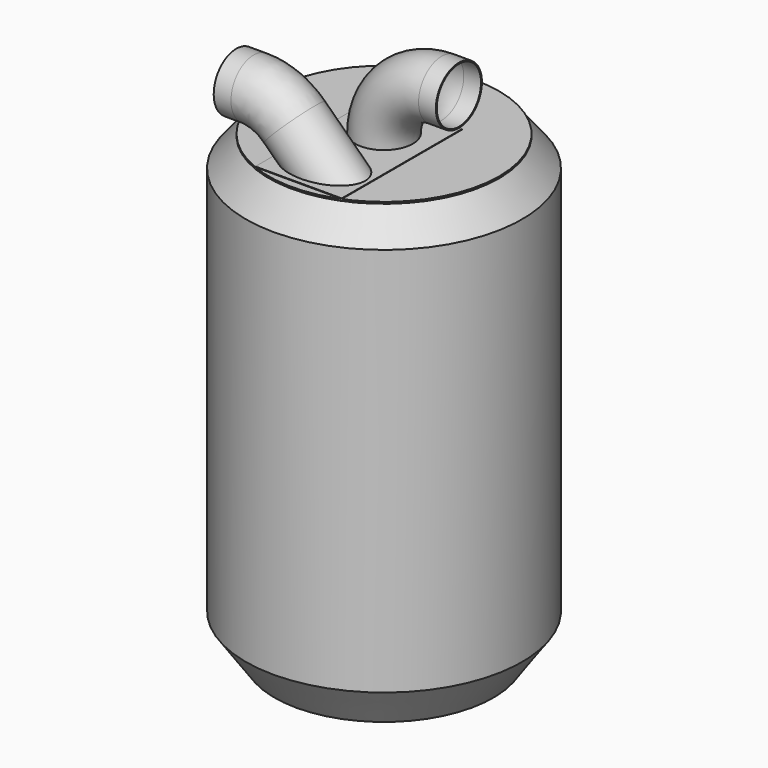
from build123d import *

# Parameters (mm, degrees)
F1_R           = 200
F1_R_2         = 35
F2_DEPTH       = 3
F3_W           = 150
F3_H           = 150
F3_R           = 35
F3_H_2         = 110.4049621774
F4_DEPTH       = 1
F5_R           = 2.5
F6_DEPTH       = 200
F7_R           = 40
F8_DEPTH       = 1
F9_R           = 75
F9_R_2         = 74
F10_DEPTH      = 200
F11_W          = 150
F11_H          = 110.4049621774
F11_H_2        = 150
F11_R          = 35
F12_DEPTH      = 1
F14_R          = 50
F14_R_2        = 48
F18_R          = 50
F19_DEPTH      = 286.3066576677
F19_DEPTH_BACK = 248.6353568471
F20_R          = 50
F20_R_2        = 48
F21_DEPTH      = 75
F24_R          = 50
F24_R_2        = 48


with BuildPart() as f2:
    # F1 (on Top) → F2 (new body)
    with BuildSketch(Plane.XY):
        Circle(F1_R)
        Circle(F1_R_2, mode=Mode.SUBTRACT)
    extrude(amount=F2_DEPTH)


with BuildPart() as f4:
    # F3 (on face) → F4 (new body)
    with BuildSketch(Plane(origin=(0, 0, 0), x_dir=(1, 0, 0), z_dir=(0, 0, -1))):
        Rectangle(F3_W, F3_H)
        Circle(F3_R, mode=Mode.SUBTRACT)
        with Locations((0, 130.2024810887)):
            Rectangle(F3_W, F3_H_2)
    extrude(amount=F4_DEPTH)


with BuildPart() as f6:
    # F5 (on face) → F6 (new body)
    with BuildSketch(Plane(origin=(0, 0, -1), x_dir=(1, 0, 0), z_dir=(0, 0, -1))):
        with Locations((0, 37.5)):
            Circle(F5_R)
    extrude(amount=F6_DEPTH)


with BuildPart() as f6b:
    # F5 (on face) → F6, piece 2 (new body)
    with BuildSketch(Plane(origin=(0, 0, -1), x_dir=(1, 0, 0), z_dir=(0, 0, -1))):
        with Locations((-32.4759526419, 18.75)):
            Circle(F5_R)
    extrude(amount=F6_DEPTH)


with BuildPart() as f6c:
    # F5 (on face) → F6, piece 3 (new body)
    with BuildSketch(Plane(origin=(0, 0, -1), x_dir=(1, 0, 0), z_dir=(0, 0, -1))):
        with Locations((-32.4759526419, -18.75)):
            Circle(F5_R)
    extrude(amount=F6_DEPTH)


with BuildPart() as f6d:
    # F5 (on face) → F6, piece 4 (new body)
    with BuildSketch(Plane(origin=(0, 0, -1), x_dir=(1, 0, 0), z_dir=(0, 0, -1))):
        with Locations((0, -37.5)):
            Circle(F5_R)
    extrude(amount=F6_DEPTH)


with BuildPart() as f6e:
    # F5 (on face) → F6, piece 5 (new body)
    with BuildSketch(Plane(origin=(0, 0, -1), x_dir=(1, 0, 0), z_dir=(0, 0, -1))):
        with Locations((32.4759526419, -18.75)):
            Circle(F5_R)
    extrude(amount=F6_DEPTH)


with BuildPart() as f6f:
    # F5 (on face) → F6, piece 6 (new body)
    with BuildSketch(Plane(origin=(0, 0, -1), x_dir=(1, 0, 0), z_dir=(0, 0, -1))):
        with Locations((32.4759526419, 18.75)):
            Circle(F5_R)
    extrude(amount=F6_DEPTH)


with BuildPart() as f8:
    # F7 (on face) → F8 (new body)
    with BuildSketch(Plane(origin=(0, 0, -201), x_dir=(1, 0, 0), z_dir=(0, 0, -1))):
        Circle(F7_R)
    extrude(amount=F8_DEPTH)


with BuildPart() as f10:
    # F9 (on face) → F10 (new body)
    with BuildSketch(Plane(origin=(0, 0, -1), x_dir=(1, 0, 0), z_dir=(0, 0, -1))):
        Circle(F9_R)
        Circle(F9_R_2, mode=Mode.SUBTRACT)
    extrude(amount=F10_DEPTH)


with BuildPart() as f12:
    # F11 (on face) → F12 (new body)
    with BuildSketch(Plane.XY.offset(3)):
        with Locations((0, -130.2024810887)):
            Rectangle(F11_W, F11_H)
        Rectangle(F11_W, F11_H_2)
        Circle(F11_R, mode=Mode.SUBTRACT)
    extrude(amount=F12_DEPTH)


with BuildPart() as f15:
    # F15: sweep along a path in F13
    with BuildLine(Plane.XZ) as f15_path:
        ThreePointArc((0, 4), (29.2893218813, 74.7106781187), (100, 104))
        Line((100, 104), (130, 104))
    # F14 (on face) → F15 (sweep)
    with BuildSketch(Plane.XY.offset(4)):
        Circle(F14_R)
        Circle(F14_R_2, mode=Mode.SUBTRACT)
    sweep(path=f15_path.line)


with BuildPart() as f19_tool:
    # F18 (on face) → F19 (new body, two sides)
    with BuildSketch(Plane(origin=(-1.4994667615, 0, 1.4600071098), x_dir=(0, -1, 0), z_dir=(-0.7164711881, 0, 0.6976166832))) as f19_sk:
        with Locations((125, 0)):
            Circle(F18_R)
    extrude(amount=-F19_DEPTH)
    extrude(f19_sk.sketch, amount=F19_DEPTH_BACK)


with BuildPart() as f2_1:
    add(f2.part)

    # F19: cut by f19_tool
    add(f19_tool.part, mode=Mode.SUBTRACT)


with BuildPart() as f4_1:
    add(f4.part)

    # F19: cut by f19_tool
    add(f19_tool.part, mode=Mode.SUBTRACT)


with BuildPart() as f12_1:
    add(f12.part)

    # F19: cut by f19_tool
    add(f19_tool.part, mode=Mode.SUBTRACT)


with BuildPart() as f21:
    # F20 (on face) → F21 (new body, symmetric)
    with BuildSketch(Plane(origin=(-1.4994667615, 0, 1.4600071098), x_dir=(0, -1, 0), z_dir=(-0.7164711881, 0, 0.6976166832))):
        with Locations((125, 0)):
            Circle(F20_R)
        with Locations((125, 0)):
            Circle(F20_R_2, mode=Mode.SUBTRACT)
    extrude(amount=F21_DEPTH, both=True)

    # F25: sweep along a path in F23
    with BuildLine(Plane.XZ.offset(125)) as f25_path:
        ThreePointArc((-55.2348058693, 53.7812583464), (-87.4941656733, 75.4154912887), (-125.5856058404, 83.0147357218))
        Line((-125.5856058404, 83.0147357218), (-155.5856058404, 83.0147357218))
    # F24 (on face) → F25 (sweep)
    with BuildSketch(Plane(origin=(-55.2348058693, 0, 53.7812583464), x_dir=(0, -1, 0), z_dir=(-0.7164711881, 0, 0.6976166832))):
        with Locations((125, 0)):
            Circle(F24_R)
        with Locations((125, 0)):
            Circle(F24_R_2, mode=Mode.SUBTRACT)
    sweep(path=f25_path.line)


with BuildPart() as f27:
    # F26 (on Right) → F27 (revolve)
    with BuildSketch(Plane.YZ):
        Polygon((-196.145111283, 0), (-200, 0), (-240, -49.5708366621), (-240, -725.9873151779), (-190, -797), (0, -797), (0, -794), (-188.4432653289, -794), (-237, -725.0371180962), (-237, -50.630275386), align=None)
    revolve(axis=Axis((0, 0, -201), (0, 0, -1)))


solid = Compound([f6.part, f6b.part, f6c.part, f6d.part, f6e.part, f6f.part, f8.part, f10.part, f15.part, f2_1.part, f4_1.part, f12_1.part, f21.part, f27.part])
